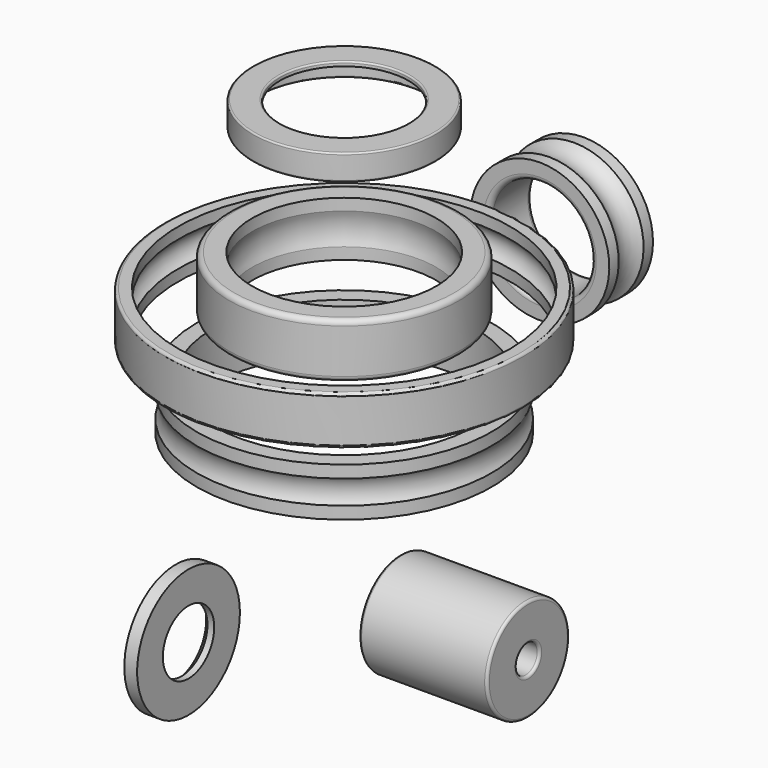
from build123d import *

# Parameters (mm, degrees)
F2_R            = 1.27
F5_R            = 25.4
F6_DEPTH        = 63.35014
F7_R            = 7.00024
F8_DEPTH        = 159.258
F9_R            = 1.27
F12_R           = 2.54
F15_R           = 0.762
F16_R           = 31.75
F17_DEPTH       = 6.35
F19_D           = 31.75
F19_DEPTH       = 50.8
F19_CSINK_D     = 37.74948
F19_CSINK_ANGLE = 90
F22_R           = 2.54


with BuildPart() as f1:
    # F0 (on Front) → F1 (revolve)
    with BuildSketch(Plane.XZ):
        with BuildLine():
            Line((88.50122, 28.995201), (81.99882, 28.995201))
            Line((81.99882, 28.995201), (81.99882, 23.407201))
            ThreePointArc((81.99882, 23.407201), (85.590805, 17.006401), (81.99882, 10.605601))
            Line((81.99882, 10.605601), (81.99882, 5.017601))
            Line((81.99882, 5.017601), (88.50122, 5.017601))
            Line((88.50122, 5.017601), (88.50122, 28.995201))
        make_face()
    revolve(axis=Axis((0, 0, -0.341533), (0, 0, -1)))

    # F2
    f2_edges = [f1.edges().sort_by_distance(p)[0] for p in [
        (-88.50122, 0, 5.017601),
        (-88.50122, 0, 28.995201),
    ]]
    fillet(f2_edges, radius=F2_R)


with BuildPart() as f4:
    # F3 (on Front) → F4 (revolve)
    with BuildSketch(Plane.XZ):
        with BuildLine():
            Line((-72.94372, -34.086379), (-65.00114, -34.086379))
            Line((-65.00114, -34.086379), (-65.00114, -10.093539))
            Line((-65.00114, -10.093539), (-72.94372, -10.093539))
            Line((-72.94372, -10.093539), (-72.94372, -16.197159))
            ThreePointArc((-72.94372, -16.197159), (-71.230358, -22.089959), (-72.94372, -27.982759))
            Line((-72.94372, -27.982759), (-72.94372, -34.086379))
        make_face()
    revolve(axis=Axis((0, 0, 0.330931), (0, 0, 1)))


with BuildPart() as f6:
    # F5 (on Right) → F6 (new body)
    with BuildSketch(Plane.YZ):
        with Locations((34.591898, -126.434907)):
            Circle(F5_R)
    extrude(amount=F6_DEPTH)

    # F7 (on face) → F8 (cut)
    with BuildSketch(Plane.YZ.offset(63.35014)):
        with Locations((34.591898, -126.434907)):
            Circle(F7_R)
    extrude(amount=-F8_DEPTH, mode=Mode.SUBTRACT)

    # F9
    f9_edges = [f6.edges().sort_by_distance(p)[0] for p in [
        (63.35014, 9.191898, -126.434907),
        (63.35014, 27.591658, -126.434907),
        (0, 9.191898, -126.434907),
        (0, 27.591658, -126.434907),
    ]]
    fillet(f9_edges, radius=F9_R)


with BuildPart() as f11:
    # F10 (on Right) → F11 (revolve)
    with BuildSketch(Plane.YZ):
        with BuildLine():
            Line((-45.52442, 44.412965), (-56.95442, 44.412965))
            Line((-56.95442, 44.412965), (-56.95442, 17.361965))
            Line((-56.95442, 17.361965), (-45.52442, 17.361965))
            Line((-45.52442, 17.361965), (-45.52442, 23.102365))
            ThreePointArc((-45.52442, 23.102365), (-47.116733, 30.890005), (-45.52442, 38.677645))
            Line((-45.52442, 38.677645), (-45.52442, 44.412965))
        make_face()
    revolve(axis=Axis((0, 0, -0.500083), (0, 0, -1)))

    # F12
    f12_edges = [f11.edges().sort_by_distance(p)[0] for p in [
        (0, 56.95442, 44.412965),
        (0, 56.95442, 17.361965),
    ]]
    fillet(f12_edges, radius=F12_R)


with BuildPart() as f14:
    # F13 (on Front) → F14 (revolve)
    with BuildSketch(Plane.XZ):
        Polygon((-31.75, 108.765143), (-31.75, 110.964783), (-45.07484, 110.964783), (-45.07484, 98.264783), (-42.347087, 98.298362), (-42.347087, 108.765143), align=None)
    revolve(axis=Axis((0, 0, 0.443307), (0, 0, -1)))

    # F15
    f15_edges = [f14.edges().sort_by_distance(p)[0] for p in [
        (31.75, 0, 110.964783),
        (45.07484, 0, 98.264783),
        (45.07484, 0, 110.964783),
        (42.347087, 0, 98.298362),
    ]]
    fillet(f15_edges, radius=F15_R)


with BuildPart() as f17:
    # F16 (on Right) → F17 (new body)
    with BuildSketch(Plane.YZ):
        with Locations((-104.156807, -80.915205)):
            Circle(F16_R)
    extrude(amount=F17_DEPTH)

    # F19
    with Locations(Plane(origin=(0, 0, 0), x_dir=(0, -1, 0), z_dir=(-1, 0, 0))):
        with Locations((104.156807, -80.915205)):
            CounterSinkHole(F19_D / 2, F19_CSINK_D / 2, depth=F19_DEPTH, counter_sink_angle=F19_CSINK_ANGLE)


with BuildPart() as f21:
    # F20 (on Right) → F21 (revolve)
    with BuildSketch(Plane.YZ):
        with BuildLine():
            Line((120.842632, 25.4), (147.830132, 25.4))
            Line((147.830132, 25.4), (147.830132, 34.3789))
            Line((147.830132, 34.3789), (142.026232, 34.3789))
            ThreePointArc((142.026232, 34.3789), (134.336382, 30.474561), (126.646532, 34.3789))
            Line((126.646532, 34.3789), (120.842632, 34.3789))
            Line((120.842632, 34.3789), (120.842632, 25.4))
        make_face()
    revolve(axis=Axis((0, 68.931224, 0), (0, 1, 0)))

    # F22
    f22_edges = [f21.edges().sort_by_distance(p)[0] for p in [
        (0, 147.830132, -25.4),
        (0, 120.842632, -25.4),
    ]]
    fillet(f22_edges, radius=F22_R)


solid = Compound([f1.part, f4.part, f6.part, f11.part, f14.part, f17.part, f21.part])
